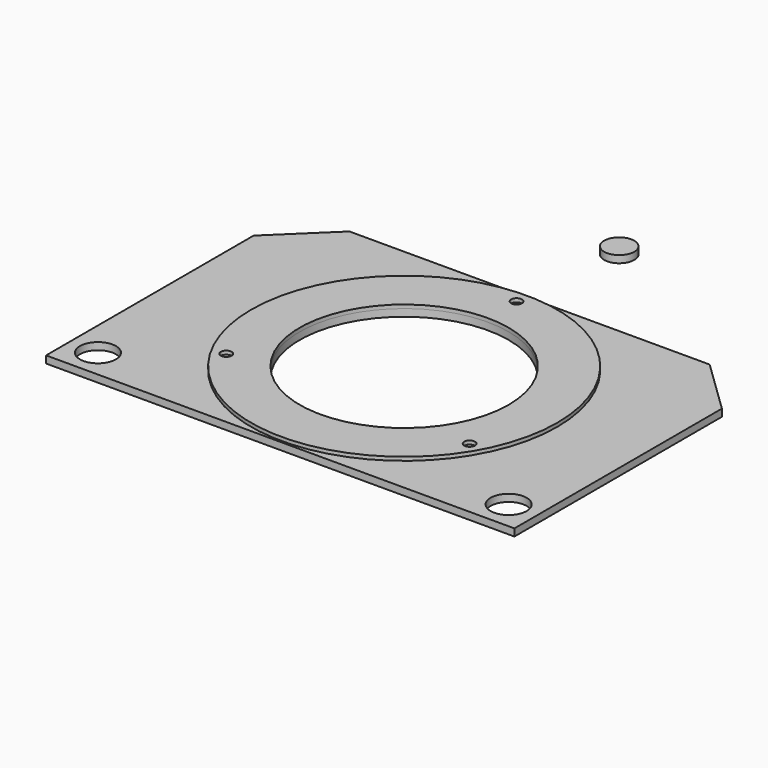
from build123d import *

# Parameters (mm, degrees)
F0_R     = 5
F0_R_2   = 3
F0_R_3   = 29
F0_R_4   = 4.179924
F1_DEPTH = 2
F2_R     = 42.5
F2_R_2   = 1.5
F2_R_3   = 29
F3_DEPTH = 1


with BuildPart() as f1:
    # F0 (on Top) → F1 (new body)
    with BuildSketch(Plane.XY):
        Polygon((-65, 29), (-65, -43), (65, -43), (65, 29), (50, 43.5), (-50, 43.5), align=None)
        with Locations((-57, -35)):
            Circle(F0_R, mode=Mode.SUBTRACT)
        with Locations((-33.774991, -19.5)):
            Circle(F0_R_2, mode=Mode.SUBTRACT)
        with Locations((57, -35)):
            Circle(F0_R, mode=Mode.SUBTRACT)
        with Locations((33.774991, -19.5)):
            Circle(F0_R_2, mode=Mode.SUBTRACT)
        Circle(F0_R_3, mode=Mode.SUBTRACT)
        with Locations((0, 39)):
            Circle(F0_R_2, mode=Mode.SUBTRACT)
        with Locations((0, 74.617674)):
            Circle(F0_R_4)
    extrude(amount=-F1_DEPTH)


with BuildPart() as f3:
    # F2 (on face) → F3 (new body)
    with BuildSketch(Plane.XY):
        Circle(F2_R)
        with Locations((-33.774991, -19.5)):
            Circle(F2_R_2, mode=Mode.SUBTRACT)
        with Locations((33.774991, -19.5)):
            Circle(F2_R_2, mode=Mode.SUBTRACT)
        Circle(F2_R_3, mode=Mode.SUBTRACT)
        with Locations((0, 39)):
            Circle(F2_R_2, mode=Mode.SUBTRACT)
    extrude(amount=F3_DEPTH)


solid = Compound([f1.part, f3.part])
